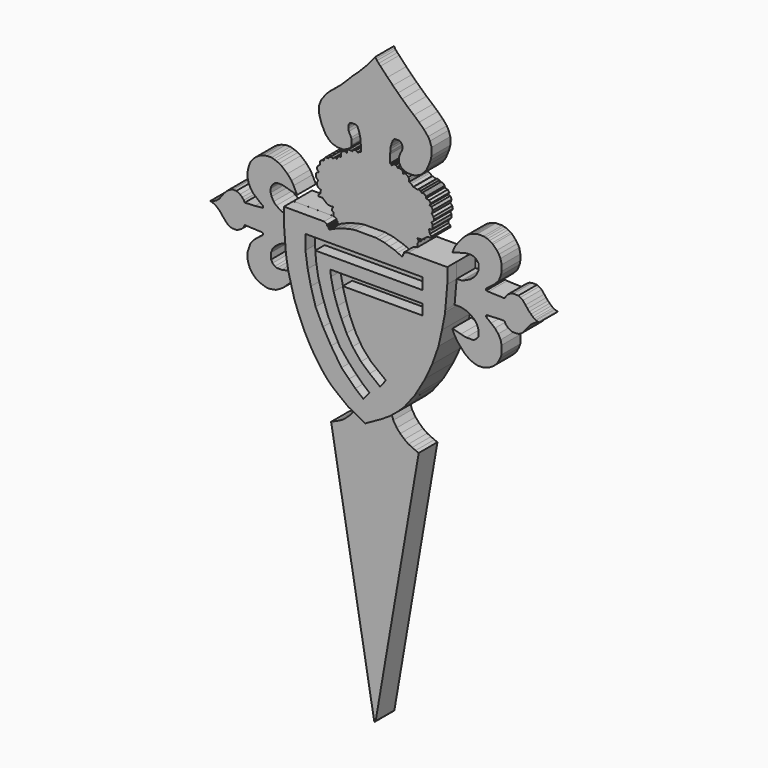
from build123d import *

# Parameters (mm, degrees)
F2_DEPTH = 2
F3_DEPTH = 3


with BuildPart() as f2:
    # F0 (on Front) → F2 (new body)
    with BuildSketch(Plane.XZ):
        Polygon((10.387039, 21.273846), (14.058955, 0), (14.104676, -0.077139), (14.187398, 0.00559), (17.865811, 21.359907), (17.59732, 21.459633), (17.313484, 21.597715), (16.991295, 21.743467), (16.646091, 21.988947), (16.293215, 22.303466), (15.994038, 22.640999), (15.699621, 23.108082), (15.547738, 23.56373), (16.187813, 23.997677), (16.827887, 24.507567), (17.413719, 25.060853), (17.865811, 25.646683), (18.346708, 26.286758), (19.237962, 27.821317), (19.802095, 29.058073), (20.344531, 30.59859), (20.648295, 31.922136), (20.931389, 33.351231), (20.931389, 33.496372), (21.463571, 33.496372), (21.926176, 33.372875), (22.325078, 33.165753), (22.645249, 32.925204), (22.854391, 32.598086), (22.984801, 32.229867), (22.984801, 31.784937), (22.836448, 31.587478), (22.565614, 31.370461), (21.910833, 31.358035), (21.463571, 31.462748), (20.74481, 31.654526), (20.760544, 31.573627), (20.799248, 31.472031), (20.925036, 31.217229), (21.204028, 30.775357), (21.783978, 30.122008), (22.105289, 29.880603), (22.418479, 29.710591), (22.70597, 29.612951), (22.873832, 29.564718), (23.273775, 29.564718), (23.493098, 29.612951), (23.760801, 29.684056), (23.989802, 29.800167), (24.218801, 29.954985), (24.354266, 30.061422), (24.61295, 30.349702), (24.804525, 30.696362), (24.945926, 31.065829), (24.945926, 31.763714), (24.854701, 32.142304), (24.654001, 32.520894), (24.373153, 32.858048), (24.043292, 33.12654), (23.663567, 33.425715), (23.621375, 33.483248), (23.613704, 33.556126), (23.682745, 33.613659), (23.778783, 33.623767), (24.837261, 33.66736), (25.193384, 33.66736), (25.292162, 33.455756), (25.472434, 33.263974), (25.671886, 33.133563), (25.875174, 33.060689), (26.277911, 33.060689), (26.454348, 33.110552), (26.669143, 33.233289), (26.857087, 33.402056), (26.964484, 33.556126), (27.256792, 33.918262), (27.449356, 34.129813), (27.69074, 34.319665), (27.880711, 34.430411), (28.145869, 34.51094), (28.052002, 34.541626), (27.912961, 34.584776), (27.846796, 34.615461), (27.734905, 34.667574), (27.592365, 34.773622), (27.453244, 34.916166), (27.30386, 35.054144), (27.152196, 35.236597), (26.984567, 35.44984), (26.764395, 35.71913), (26.545072, 35.87072), (26.377354, 35.957806), (25.941933, 35.957806), (25.732284, 35.906199), (25.577469, 35.822339), (25.442004, 35.725579), (25.342019, 35.603017), (25.222681, 35.393368), (25.202822, 35.370462), (23.805493, 35.418212), (23.642432, 35.456952), (23.598174, 35.49641), (23.595894, 35.565972), (23.650629, 35.618424), (24.306653, 36.124621), (24.687244, 36.518112), (24.887215, 37.008364), (24.945272, 37.317999), (24.945272, 37.808251), (24.847278, 38.257234), (24.710201, 38.516875), (24.536032, 38.760386), (24.202211, 39.104715), (24.107562, 39.16857), (23.906767, 39.284565), (23.738001, 39.365113), (23.53855, 39.411139), (23.411974, 39.449494), (22.873832, 39.449494), (22.759922, 39.422646), (22.583485, 39.372783), (22.45691, 39.32292), (22.257458, 39.242372), (22.050336, 39.119635), (21.850884, 38.958538), (21.613076, 38.728401), (21.417461, 38.49443), (21.294722, 38.344841), (20.957077, 37.892416), (20.749953, 37.382282), (21.010775, 37.455156), (21.456229, 37.573054), (21.875871, 37.684806), (22.100441, 37.708442), (22.392711, 37.708442), (22.478051, 37.677918), (22.548052, 37.654903), (22.667438, 37.60837), (22.824803, 37.476093), (22.94796, 37.293639), (22.979887, 37.186448), (22.979887, 36.757685), (22.873832, 36.525056), (22.808839, 36.379095), (22.683403, 36.230851), (22.596737, 36.105413), (22.25722, 35.838708), (21.973386, 35.700627), (21.613076, 35.535697), (21.535369, 35.522517), (21.104416, 35.49685), (21.104416, 36.786988), (20.720256, 36.785107), (17.76548, 36.785107), (17.76548, 37.098914), (17.837501, 37.164183), (17.861445, 37.241541), (17.837501, 37.2799), (17.837501, 37.353089), (17.768428, 37.429307), (17.784486, 37.481185), (18.072156, 37.481185), (18.175717, 37.521459), (18.639825, 37.862826), (18.961664, 37.862826), (18.961664, 38.002826), (18.816262, 38.137071), (18.79148, 38.290657), (18.739218, 38.497079), (18.972099, 38.497079), (19.062409, 38.613189), (19.062409, 38.884118), (18.961664, 39.056894), (19.126916, 39.206654), (19.178521, 39.322767), (19.126916, 39.529189), (18.972099, 39.709806), (19.023703, 39.82592), (19.07531, 39.993636), (18.961664, 40.224794), (18.79148, 40.27747), (18.890923, 40.462739), (18.739218, 40.630137), (18.496513, 40.70526), (18.483611, 40.827822), (18.444907, 40.885881), (18.406203, 40.929422), (18.36266, 40.974576), (18.302992, 41.001994), (18.148176, 41.001994), (18.106246, 40.956836), (18.093344, 41.000381), (18.067542, 41.069724), (18.034803, 41.109283), (17.981861, 41.12567), (17.909948, 41.146194), (17.839942, 41.167863), (17.759966, 41.115123), (17.434545, 41.215848), (17.398862, 41.206725), (17.224725, 41.380055), (17.147182, 41.425668), (17.028587, 41.453037), (17.028587, 41.690223), (16.992098, 41.813381), (16.896309, 41.895483), (16.809644, 41.945659), (16.722979, 41.977588), (16.59769, 41.935977), (16.532598, 41.91231), (16.532598, 42.041752), (16.49734, 42.087696), (16.445808, 42.161088), (16.380716, 42.207196), (16.29324, 42.203727), (16.220696, 42.22618), (16.142044, 42.215332), (16.066102, 42.180073), (16.068814, 42.201772), (16.047116, 42.26144), (15.984736, 42.312972), (15.90066, 42.3645), (15.72708, 42.3645), (15.672836, 42.320397), (15.607744, 42.269576), (15.56377, 42.228892), (15.56377, 42.277712), (15.488409, 42.320397), (15.400415, 42.320397), (15.400415, 43.002028), (15.451393, 43.231424), (15.451393, 43.426067), (15.470018, 43.587131), (15.56377, 43.890022), (15.635863, 44.080082), (15.714509, 44.237375), (15.858695, 44.302914), (16.206052, 44.302914), (16.317468, 44.237375), (16.396115, 44.139069), (16.468208, 44.014543), (16.468208, 43.745834), (16.402669, 43.549217), (16.284699, 43.346047), (16.199498, 43.070782), (16.199498, 42.625118), (16.350238, 42.369515), (16.592732, 42.19256), (16.894212, 42.087696), (17.398862, 42.087696), (17.661018, 42.153236), (18.034803, 42.325612), (18.331399, 42.594403), (18.553846, 42.909537), (18.739218, 43.326624), (18.878248, 43.697368), (18.961664, 44.040307), (18.961664, 44.689108), (18.822636, 45.115463), (18.66507, 45.402791), (18.322131, 45.81061), (17.895775, 46.227697), (17.45088, 46.616979), (16.931839, 47.061875), (16.447907, 47.507286), (16.091065, 47.840957), (15.66471, 48.262678), (15.205913, 48.726108), (14.600301, 49.371064), (14.44737, 49.530946), (14.306023, 49.693149), (14.224923, 49.813639), (14.153091, 49.922861), (14.076625, 49.827542), (13.956133, 49.679246), (13.804919, 49.505468), (13.47067, 49.086019), (12.634354, 48.23336), (12.20358, 47.84758), (11.732727, 47.3626), (11.228098, 46.866596), (10.694429, 46.414681), (10.297626, 46.095032), (9.956893, 45.761749), (9.850304, 45.620404), (9.697371, 45.407224), (9.609319, 45.305271), (9.505047, 45.092091), (9.409241, 44.857233), (9.384835, 44.769295), (9.343815, 44.679597), (9.343815, 44.205294), (9.433551, 43.842271), (9.49653, 43.646626), (9.566725, 43.410371), (9.913617, 42.729035), (10.089721, 42.548299), (10.224115, 42.399999), (10.400219, 42.265605), (10.54083, 42.196629), (10.743158, 42.140476), (10.935347, 42.076267), (11.463889, 42.076267), (11.614661, 42.153031), (11.732727, 42.213142), (11.927612, 42.312365), (12.09438, 42.48251), (12.142755, 42.656813), (12.142755, 43.017132), (12.098003, 43.198175), (11.899793, 43.587481), (11.850574, 43.786597), (11.850574, 43.942868), (11.889034, 44.081446), (11.975414, 44.230826), (12.114991, 44.30189), (12.481483, 44.30189), (12.641306, 44.197179), (12.763535, 43.887995), (12.88478, 43.397501), (12.941949, 42.675778), (12.941949, 42.356938), (12.85037, 42.356938), (12.772431, 42.317256), (12.704234, 42.264648), (12.704234, 42.194504), (12.671109, 42.194504), (12.65747, 42.268544), (12.591221, 42.30167), (12.50481, 42.356938), (12.337974, 42.356938), (12.284679, 42.312913), (12.226832, 42.236813), (12.20358, 42.153031), (12.129431, 42.210959), (12.001987, 42.208642), (11.858324, 42.208642), (11.732727, 42.076267), (11.732727, 41.91231), (11.663837, 41.971557), (11.466814, 41.971557), (11.395169, 41.923333), (11.329035, 41.873734), (11.279435, 41.822754), (11.228098, 41.770399), (11.228098, 41.443005), (11.091704, 41.443005), (11.052734, 41.417673), (10.996228, 41.378703), (10.935347, 41.325575), (10.924134, 41.285176), (10.886035, 41.234516), (10.886035, 41.170635), (10.838401, 41.183855), (10.796032, 41.222266), (10.744873, 41.236464), (10.692264, 41.236464), (10.649398, 41.191649), (10.598681, 41.160706), (10.582936, 41.103974), (10.54083, 41.11566), (10.471898, 41.159024), (10.417528, 41.174114), (10.341537, 41.174114), (10.27334, 41.137092), (10.212936, 41.107863), (10.212936, 41.02603), (10.135029, 40.993966), (9.909071, 40.993966), (9.856715, 40.948499), (9.80987, 40.89063), (9.771292, 40.84792), (9.771292, 40.694986), (9.641781, 40.694986), (9.589424, 40.66192), (9.483331, 40.597163), (9.433551, 40.506233), (9.433551, 40.263735), (9.376205, 40.247351), (9.32705, 40.206391), (9.271342, 40.160514), (9.241849, 40.099889), (9.193119, 40.026341), (9.193119, 39.872028), (9.245475, 39.805897), (9.292319, 39.742518), (9.292319, 39.65985), (9.228941, 39.65985), (9.179341, 39.618514), (9.132145, 39.577182), (9.107345, 39.519314), (9.107345, 39.255746), (9.132145, 39.20339), (9.22141, 39.110518), (9.297479, 39.049078), (9.239612, 38.977433), (9.20379, 38.922321), (9.20379, 38.652275), (9.295103, 38.534634), (9.343815, 38.493715), (9.43442, 38.446952), (9.541587, 38.446952), (9.541587, 38.404085), (9.483331, 38.367707), (9.483331, 38.141683), (9.300173, 37.997495), (9.300173, 37.868895), (9.643107, 37.868895), (9.721047, 37.806544), (9.861581, 37.690811), (10.010382, 37.569564), (10.170205, 37.486896), (10.353452, 37.466232), (10.54083, 37.492409), (10.54083, 37.409741), (10.480207, 37.338097), (10.480207, 37.161741), (10.579408, 37.07356), (10.579408, 36.801226), (7.15656, 36.801226), (7.15656, 35.522159), (6.672694, 35.522159), (6.084137, 35.753872), (5.708758, 35.999492), (5.481677, 36.226571), (5.310208, 36.550973), (5.226108, 36.801226), (5.226108, 37.121183), (5.268499, 37.273925), (5.402894, 37.48247), (5.597535, 37.667841), (5.833885, 37.727614), (6.216339, 37.727614), (6.43171, 37.667841), (7.483697, 37.375879), (7.187102, 37.982974), (6.997095, 38.307376), (6.656127, 38.701143), (6.195872, 39.096225), (5.942569, 39.252102), (5.697059, 39.36122), (5.49052, 39.427467), (5.315156, 39.48413), (4.912959, 39.48413), (4.524071, 39.380703), (4.246947, 39.267514), (4.015232, 39.119218), (3.775621, 38.908837), (3.570338, 38.66969), (3.42204, 38.391631), (3.338623, 38.118206), (3.28393, 37.877224), (3.2334, 37.582241), (3.2334, 37.40298), (3.28393, 37.171561), (3.35282, 36.912534), (3.507132, 36.598399), (3.692712, 36.327489), (3.97418, 36.085878), (4.301526, 35.805296), (4.550048, 35.619116), (4.58354, 35.555888), (4.58354, 35.462361), (3.887804, 35.387389), (3.017948, 35.347773), (2.933137, 35.507884), (2.798742, 35.670083), (2.608735, 35.841551), (2.298237, 35.995911), (2.008712, 35.995911), (1.723583, 35.892531), (1.464062, 35.707157), (1.223078, 35.443), (1.023803, 35.169579), (0.824527, 34.910057), (0.620725, 34.74406), (0.431882, 34.64403), (0.35221, 34.589349), (0.24775, 34.551475), (0.139609, 34.52225), (0.059722, 34.504712), (0.144481, 34.488149), (0.414861, 34.408018), (0.657352, 34.226149), (0.869531, 34.047037), (1.092732, 33.763215), (1.388415, 33.406481), (1.585212, 33.227529), (1.7294, 33.124261), (1.972562, 33.067938), (2.302345, 33.067938), (2.473653, 33.13005), (2.70279, 33.251423), (2.881902, 33.406481), (3.017948, 33.663142), (4.452148, 33.600794), (4.550048, 33.567141), (4.58354, 33.503912), (4.550048, 33.406481), (4.120178, 33.067938), (3.88871, 32.886069), (3.692712, 32.693181), (3.514246, 32.476595), (3.243905, 31.69015), (3.243905, 31.254768), (3.30417, 30.962065), (3.447818, 30.565877), (3.692712, 30.224103), (3.961422, 29.955395), (4.399221, 29.718818), (4.648628, 29.633084), (4.882446, 29.562939), (5.120161, 29.562939), (5.369567, 29.594114), (5.67422, 29.652143), (6.028156, 29.839624), (6.38278, 30.092927), (6.758161, 30.457009), (6.965005, 30.684089), (7.184518, 31.027028), (7.355987, 31.328257), (7.46721, 31.643391), (6.901825, 31.485826), (6.53108, 31.397771), (6.169605, 31.328257), (5.771054, 31.328257), (5.581047, 31.397771), (5.386573, 31.564421), (5.261281, 31.800956), (5.261281, 32.32), (5.372504, 32.611962), (5.557876, 32.88075), (5.921062, 33.161254), (6.23574, 33.327939), (6.452366, 33.406481), (6.721087, 33.503912), (6.965005, 33.503912), (7.315932, 33.503912), (7.315932, 33.457797), (7.394579, 32.900713), (7.538765, 32.08803), (7.787813, 31.085284), (8.049458, 30.154789), (8.391149, 29.212382), (8.892072, 28.056135), (9.309048, 27.268946), (9.753303, 26.501244), (10.370929, 25.640544), (10.713862, 25.211876), (11.150323, 24.744241), (11.543917, 24.405204), (11.918027, 24.101241), (12.653973, 23.545364), (12.565495, 23.171792), (12.387627, 22.798259), (12.060282, 22.354003), (11.670585, 21.987688), (11.319857, 21.7149), (10.898984, 21.504464), align=None)
    extrude(amount=F2_DEPTH)

    # F1 (on Front) → F3 (join)
    with BuildSketch(Plane.XZ):
        Polygon((12.660862, 23.536604), (14.111363, 22.770301), (15.517147, 23.558931), (16.183101, 23.987696), (16.849054, 24.525933), (17.41858, 25.065766), (18.356113, 26.290609), (19.23486, 27.80943), (19.809091, 29.058494), (20.351527, 30.588163), (20.649867, 31.917132), (20.932034, 33.34998), (20.932034, 33.491015), (21.10336, 35.492644), (21.10336, 36.788871), (17.770434, 36.788871), (17.41858, 36.704727), (17.438155, 36.622874), (17.364064, 36.545042), (17.315336, 36.538326), (17.335876, 36.389298), (17.223792, 36.330067), (16.853908, 36.491379), (16.644087, 36.596291), (16.160587, 36.746815), (15.727261, 36.892775), (15.307619, 36.961194), (15.038501, 37.014201), (13.254851, 37.014201), (12.901504, 36.965501), (12.508238, 36.878709), (12.058016, 36.753949), (11.678311, 36.621053), (11.270818, 36.451846), (11.187247, 36.392397), (11.110032, 36.351592), (11.026324, 36.351592), (10.952458, 36.408131), (10.948162, 36.439303), (10.948162, 36.526834), (10.933148, 36.538326), (10.876823, 36.530563), (10.85154, 36.549915), (10.85154, 36.632988), (10.869422, 36.670789), (10.596387, 36.799949), (7.159486, 36.799949), (7.159486, 35.514653), (7.315992, 33.504274), (7.315992, 33.45751), (7.392946, 32.899175), (7.533979, 32.101791), (7.78936, 31.085484), (8.044794, 30.14585), (8.38798, 29.214041), (8.886091, 28.062129), (9.305387, 27.268695), (9.753097, 26.503518), (10.366793, 25.648179), (10.717737, 25.196927), (11.137379, 24.749916), (11.538776, 24.412379), (11.921927, 24.102207), align=None)
        Polygon((11.173152, 32.833446), (11.120038, 33.364583), (18.980876, 33.364583), (18.980876, 32.461651), (12.182314, 32.461651), (12.465587, 31.434786), (12.801974, 30.407919), (13.297702, 29.310234), (13.864249, 28.389595), (14.590138, 27.575184), (15.864868, 26.566023), (15.365492, 25.935233), (14.477579, 26.638163), (13.740317, 27.291911), (13.014429, 28.17714), (12.500996, 29.026961), (12.076085, 29.965304), (11.721994, 30.815125), (11.403312, 31.788874), align=None, mode=Mode.SUBTRACT)
        Polygon((8.997717, 35.349835), (18.980876, 35.349835), (18.986117, 34.374263), (9.836252, 34.374263), (9.905106, 33.598084), (10.086632, 32.461651), (10.462204, 31.106796), (10.910092, 29.852314), (11.371612, 28.869724), (11.937345, 27.827583), (12.637069, 26.964094), (13.254851, 26.290609), (13.9323, 25.632668), (14.463838, 25.188784), (13.9323, 24.552284), (13.254851, 25.118018), (12.711506, 25.653975), (12.076085, 26.290609), (11.187247, 27.643915), (10.492581, 28.844018), (9.860949, 30.149391), (9.460915, 31.560037), (9.187207, 32.781195), (8.997717, 34.107622), align=None, mode=Mode.SUBTRACT)
    extrude(amount=F3_DEPTH)


solid = f2.part
